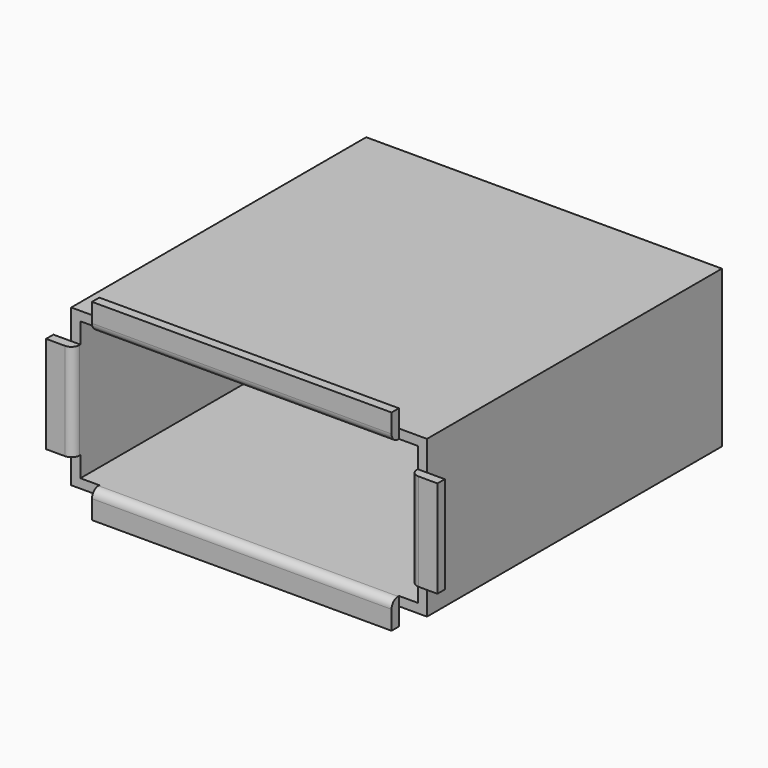
from build123d import *

# Parameters (mm, degrees)
SKETCH009_W       = 13.18
SKETCH009_H       = 5.8
SKETCH009_W_2     = 12.5
SKETCH009_H_2     = 5.12
PAD005_DEPTH      = 2.66
PAD005_DEPTH_BACK = 11
SKETCH011_W       = 11.1
SKETCH011_H       = 1
SKETCH011_W_2     = 1
SKETCH011_H_2     = 3.6
PAD006_DEPTH      = 0.34
SKETCH012_W       = 11.5
SKETCH012_H       = 2
POCKET004_DEPTH   = 5
FILLET001_R       = 0.3


with BuildPart() as part:
    # Sketch009 → Pad005 (new body, two sides)
    with BuildSketch(Plane.XZ) as pad005_sk:
        with Locations((0, 4.64)):
            Rectangle(SKETCH009_W, SKETCH009_H)
        with Locations((0, 4.64)):
            Rectangle(SKETCH009_W_2, SKETCH009_H_2, mode=Mode.SUBTRACT)
    extrude(amount=PAD005_DEPTH)
    extrude(pad005_sk.sketch, amount=-PAD005_DEPTH_BACK)

    # Sketch011 → Pad006 (join)
    with BuildSketch(Plane.XZ.offset(2.66)):
        with Locations((0, 7.7)):
            Rectangle(SKETCH011_W, SKETCH011_H)
        with Locations((0, 1.58)):
            Rectangle(SKETCH011_W, SKETCH011_H)
        with Locations((-6.75, 4.64)):
            Rectangle(SKETCH011_W_2, SKETCH011_H_2)
        with Locations((6.75, 4.64)):
            Rectangle(SKETCH011_W_2, SKETCH011_H_2)
    extrude(amount=PAD006_DEPTH)

    # Sketch012 → Pocket004 (cut)
    with BuildSketch(Plane.XY):
        with Locations((0, 10)):
            Rectangle(SKETCH012_W, SKETCH012_H)
    extrude(amount=POCKET004_DEPTH, mode=Mode.SUBTRACT)

    # Fillet001
    fillet001_edges = [part.edges().sort_by_distance(p)[0] for p in [
        (-6.25, -3, 4.64),
        (0, -3, 7.2),
        (6.25, -3, 4.64),
        (0, -3, 2.08),
    ]]
    fillet(fillet001_edges, radius=FILLET001_R)


solid = part.part
